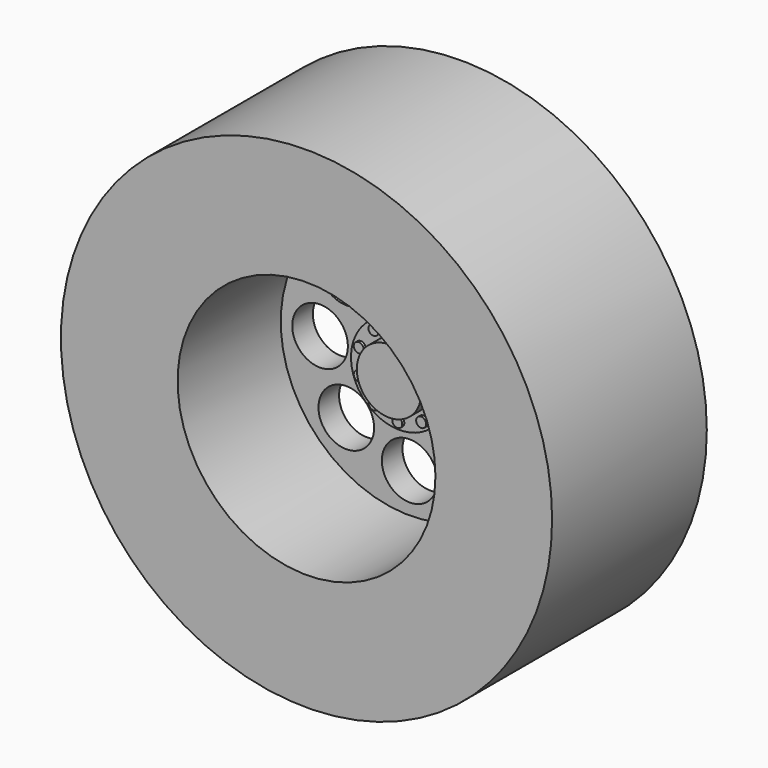
from build123d import *

# Parameters (mm, degrees)
F0_R      = 19.05
F1_DEPTH  = 15
F2_R      = 10
F3_DEPTH  = 10
F4_R      = 3.75
F5_DEPTH  = 1
F6_R      = 2.5
F7_DEPTH  = 1
F8_R      = 2.1579433181
F9_DEPTH  = 18.796
F10_R     = 17.5
F10_R_2   = 2.1579433181
F11_DEPTH = 3
F13_R     = 0.385837363
F14_DEPTH = 0.2
F15_R     = 17.5
F15_R_2   = 10.0251720055
F16_DEPTH = 3
F17_R     = 17.8216148864
F17_R_2   = 10.0251720055
F18_DEPTH = 12
F12_R     = 2.5
F19_DEPTH = 7.5


with BuildPart() as f1:
    # F0 (on Front) → F1 (new body)
    with BuildSketch(Plane.XZ):
        Circle(F0_R)
    extrude(amount=F1_DEPTH)

    # F2 (on face) → F3 (cut)
    with BuildSketch(Plane.XZ.offset(15)):
        Circle(F2_R)
    extrude(amount=-F3_DEPTH, mode=Mode.SUBTRACT)

    # F4 (on face) → F5 (join)
    with BuildSketch(Plane.XZ.offset(5)):
        Circle(F4_R)
    extrude(amount=F5_DEPTH)

    # F6 (on face) → F7 (join)
    with BuildSketch(Plane.XZ.offset(6)):
        Circle(F6_R)
    extrude(amount=F7_DEPTH)

    # F8 (on face) → F9 (cut)
    with BuildSketch(Plane.XZ.offset(5)):
        with Locations((0, 6.9501847029)):
            Circle(F8_R)
        with Locations((4.9145227339, 4.9145227339)):
            Circle(F8_R)
        with Locations((6.9501847029, 0)):
            Circle(F8_R)
        with Locations((4.9145227339, -4.9145227339)):
            Circle(F8_R)
        with Locations((0, -6.9501847029)):
            Circle(F8_R)
        with Locations((-4.9145227339, -4.9145227339)):
            Circle(F8_R)
        with Locations((-6.9501847029, 0)):
            Circle(F8_R)
        with Locations((-4.9145227339, 4.9145227339)):
            Circle(F8_R)
    extrude(amount=-F9_DEPTH, mode=Mode.SUBTRACT)

    # F10 (on face) → F11 (cut)
    with BuildSketch(Plane(origin=(0, 0, 0), x_dir=(-1, 0, 0), z_dir=(0, 1, 0))):
        Circle(F10_R)
        with Locations((-4.9145227339, -4.9145227339)):
            Circle(F10_R_2, mode=Mode.SUBTRACT)
        with Locations((0, -6.9501847029)):
            Circle(F10_R_2, mode=Mode.SUBTRACT)
        with Locations((4.9145227339, -4.9145227339)):
            Circle(F10_R_2, mode=Mode.SUBTRACT)
        with Locations((-6.9501847029, 0)):
            Circle(F10_R_2, mode=Mode.SUBTRACT)
        with Locations((-4.9145227339, 4.9145227339)):
            Circle(F10_R_2, mode=Mode.SUBTRACT)
        with Locations((6.9501847029, 0)):
            Circle(F10_R_2, mode=Mode.SUBTRACT)
        with Locations((0, 6.9501847029)):
            Circle(F10_R_2, mode=Mode.SUBTRACT)
        with Locations((4.9145227339, 4.9145227339)):
            Circle(F10_R_2, mode=Mode.SUBTRACT)
    extrude(amount=-F11_DEPTH, mode=Mode.SUBTRACT)

    # F13 (on face) → F14 (join)
    with BuildSketch(Plane.XZ.offset(6)):
        with Locations((0, 3.1463524792)):
            Circle(F13_R)
        with Locations((1.8493795858, 2.545452626)):
            Circle(F13_R)
        with Locations((2.9923590279, 0.9722763864)):
            Circle(F13_R)
        with Locations((2.9923590279, -0.9722763864)):
            Circle(F13_R)
        with Locations((1.8493795858, -2.545452626)):
            Circle(F13_R)
        with Locations((0, -3.1463524792)):
            Circle(F13_R)
        with Locations((-1.8493795858, -2.545452626)):
            Circle(F13_R)
        with Locations((-2.9923590279, -0.9722763864)):
            Circle(F13_R)
        with Locations((-2.9923590279, 0.9722763864)):
            Circle(F13_R)
        with Locations((-1.8493795858, 2.545452626)):
            Circle(F13_R)
    extrude(amount=F14_DEPTH)

    # F15 (on face) → F16 (join)
    with BuildSketch(Plane(origin=(0, -3, 0), x_dir=(-1, 0, 0), z_dir=(0, 1, 0))):
        Circle(F15_R)
        Circle(F15_R_2, mode=Mode.SUBTRACT)
    extrude(amount=F16_DEPTH)

    # F17 (on face) → F18 (cut)
    with BuildSketch(Plane(origin=(0, 0, 0), x_dir=(-1, 0, 0), z_dir=(0, 1, 0))):
        Circle(F17_R)
        Circle(F17_R_2, mode=Mode.SUBTRACT)
    extrude(amount=-F18_DEPTH, mode=Mode.SUBTRACT)

    # F12 (on face) → F19 (join)
    with BuildSketch(Plane(origin=(0, -3, 0), x_dir=(-1, 0, 0), z_dir=(0, 1, 0))):
        Circle(F12_R)
    extrude(amount=F19_DEPTH)


solid = f1.part
